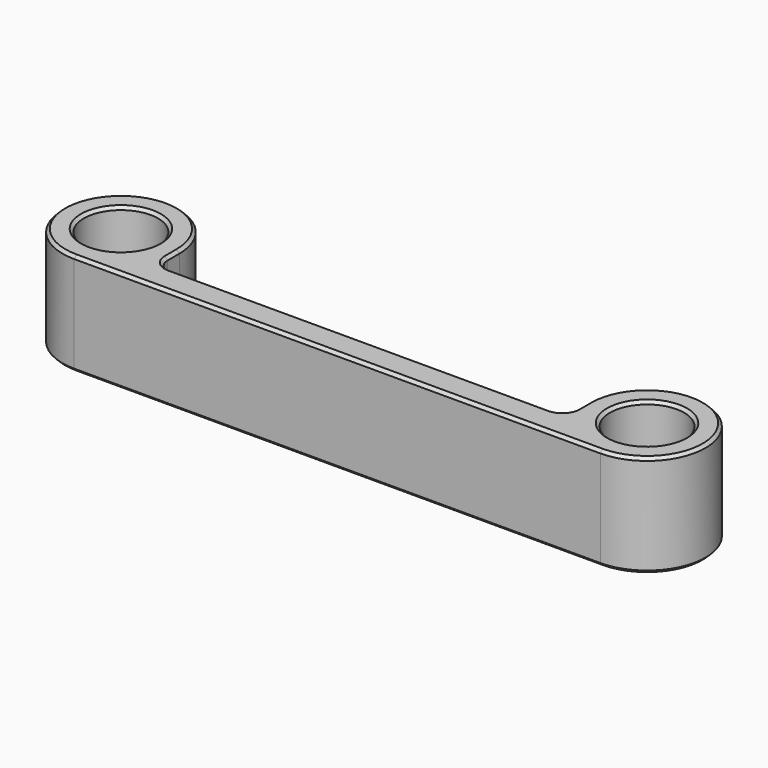
from build123d import *

# Parameters (mm, degrees)
F0_R     = 4.2
F1_DEPTH = 10
F2_R     = 12.7
F3_DEPTH = 25
F4_R     = 5
F5_SIZE  = 1


with BuildPart() as f1:
    # F0 (on Top) → F1 (new body)
    with BuildSketch(Plane.XY):
        with BuildLine():
            Line((-70, -10), (-70, 0))
            ThreePointArc((-70, 0), (-104.1421356237, 14.1421356237), (-90, -20))
            Line((-90, -20), (90, -20))
            ThreePointArc((90, -20), (104.1421356237, 14.1421356237), (70, 0))
            Line((70, 0), (70, -10))
            Line((70, -10), (-70, -10))
        make_face()
        with Locations((-90, 0)):
            Circle(F0_R, mode=Mode.SUBTRACT)
        with Locations((90, 0)):
            Circle(F0_R, mode=Mode.SUBTRACT)
    extrude(amount=F1_DEPTH)

    # F2 (on face) → F3 (join)
    with BuildSketch(Plane.XY.offset(10)):
        with BuildLine():
            Line((70, -10), (-70, -10))
            Line((-70, -10), (-70, 0))
            ThreePointArc((-70, 0), (-104.1421356237, 14.1421356237), (-90, -20))
            Line((-90, -20), (90, -20))
            ThreePointArc((90, -20), (104.1421356237, 14.1421356237), (70, 0))
            Line((70, 0), (70, -10))
        make_face()
        with Locations((-90, 0)):
            Circle(F2_R, mode=Mode.SUBTRACT)
        with Locations((90, 0)):
            Circle(F2_R, mode=Mode.SUBTRACT)
    extrude(amount=F3_DEPTH)

    # F4
    f4_edges = [f1.edges().sort_by_distance(p)[0] for p in [
        (-70, -10, 17.5),
        (70, -10, 17.5),
    ]]
    fillet(f4_edges, radius=F4_R)

    # F5
    f5_edges = [f1.edges().sort_by_distance(p)[0] for p in [
        (-70, -2.5, 0),
        (-68.535534, -8.535534, 0),
        (-104.142136, 14.142136, 0),
        (0, -10, 0),
        (0, -20, 0),
        (68.535534, -8.535534, 0),
        (104.142136, 14.142136, 0),
        (70, -2.5, 0),
        (-94.2, 0, 0),
        (85.8, 0, 0),
        (70, -2.5, 35),
        (68.535534, -8.535534, 35),
        (104.142136, 14.142136, 35),
        (0, -10, 35),
        (0, -20, 35),
        (-68.535534, -8.535534, 35),
        (-104.142136, 14.142136, 35),
        (-70, -2.5, 35),
        (-102.7, 0, 35),
        (77.3, 0, 35),
    ]]
    chamfer(f5_edges, length=F5_SIZE)


solid = f1.part
